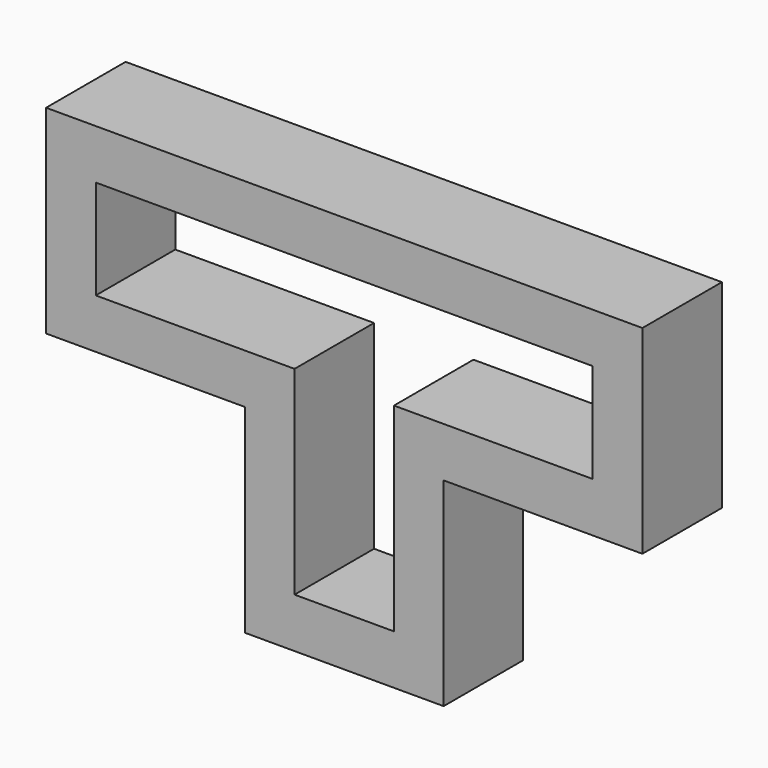
from build123d import *

# Parameters (mm, degrees)
F1_DEPTH = 10


with BuildPart() as f1:
    # F0 (on Front) → F1 (new body)
    with BuildSketch(Plane.XZ):
        Polygon((0, 20), (0, 0), (20, 0), (20, 20), (40, 20), (40, 40), (-20, 40), (-20, 20), align=None)
        Polygon((5, 25), (-15, 25), (-15, 35), (35, 35), (35, 25), (15, 25), (15, 5), (5, 5), align=None, mode=Mode.SUBTRACT)
    extrude(amount=F1_DEPTH)


solid = f1.part
